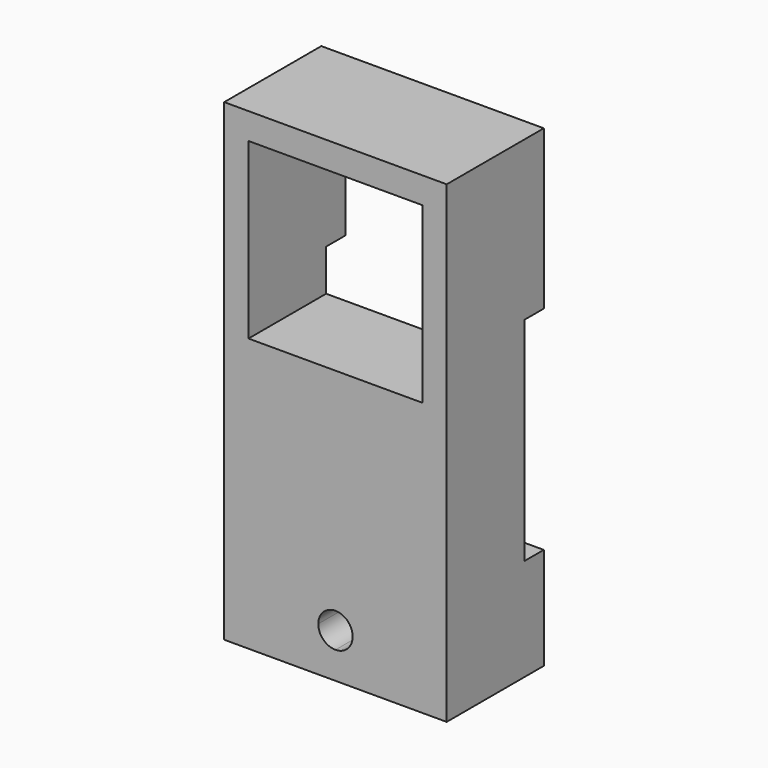
from build123d import *

# Parameters (mm, degrees)
F0_W     = 55
F0_H     = 30
F1_DEPTH = 117
F3_DEPTH = 47.244
F4_W     = 55
F4_H     = 52.50004
F5_DEPTH = 6


with BuildPart() as f1:
    # F0 (on Top) → F1 (new body)
    with BuildSketch(Plane.XY):
        Rectangle(F0_W, F0_H)
    extrude(amount=F1_DEPTH)

    # F2 (on face) → F3 (cut)
    with BuildSketch(Plane(origin=(0, 15, 0), x_dir=(-1, 0, 0), z_dir=(0, 1, 0))):
        with BuildLine():
            ThreePointArc((0, 15.25), (-4.25, 11), (0, 6.75))
            Line((0, 6.75), (0, 11))
            Line((0, 11), (0, 15.25))
        make_face()
        with BuildLine():
            Line((-21.5, 67.5), (0, 67.5))
            Line((0, 67.5), (0, 75))
            ThreePointArc((0, 75), (-14, 89), (0, 103))
            Line((0, 103), (0, 110.5))
            Line((0, 110.5), (-21.5, 110.5))
            Line((-21.5, 110.5), (-21.5, 67.5))
        make_face()
        with BuildLine():
            Line((0, 75), (0, 67.5))
            Line((0, 67.5), (21.5, 67.5))
            Line((21.5, 67.5), (21.5, 110.5))
            Line((21.5, 110.5), (0, 110.5))
            Line((0, 110.5), (0, 103))
            ThreePointArc((0, 103), (9.899495, 98.899495), (14, 89))
            ThreePointArc((14, 89), (9.899495, 79.100505), (0, 75))
        make_face()
        with BuildLine():
            Line((0, 11), (0, 6.75))
            ThreePointArc((0, 6.75), (3.005204, 7.994796), (4.25, 11))
            ThreePointArc((4.25, 11), (3.005204, 14.005204), (0, 15.25))
            Line((0, 15.25), (0, 11))
        make_face()
        with BuildLine():
            ThreePointArc((0, 103), (-14, 89), (0, 75))
            Line((0, 75), (0, 89))
            Line((0, 89), (0, 103))
        make_face()
        with BuildLine():
            Line((0, 89), (0, 75))
            ThreePointArc((0, 75), (9.899495, 79.100505), (14, 89))
            ThreePointArc((14, 89), (9.899495, 98.899495), (0, 103))
            Line((0, 103), (0, 89))
        make_face()
    extrude(amount=-F3_DEPTH, mode=Mode.SUBTRACT)

    # F4 (on face) → F5 (cut)
    with BuildSketch(Plane(origin=(0, 15, 0), x_dir=(-1, 0, 0), z_dir=(0, 1, 0))):
        with Locations((0, 51.5)):
            Rectangle(F4_W, F4_H)
    extrude(amount=-F5_DEPTH, mode=Mode.SUBTRACT)


solid = f1.part
